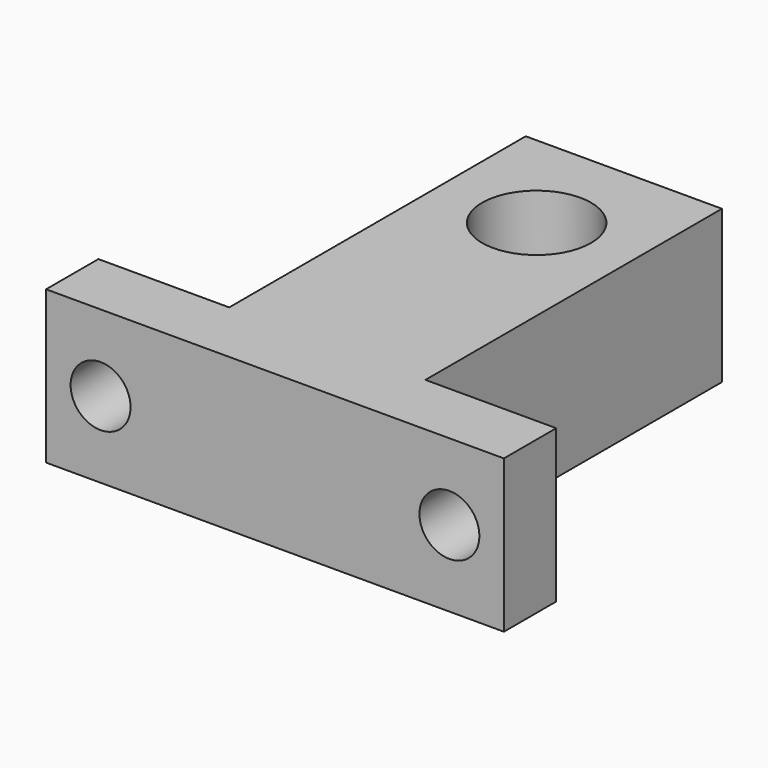
from build123d import *

# Parameters (mm, degrees)
F0_R     = 5
F1_DEPTH = 14
F2_R     = 2.75
F3_DEPTH = 6


with BuildPart() as f1:
    # F0 (on Top) → F1 (new body)
    with BuildSketch(Plane.XY):
        Polygon((9, 40), (-9, 40), (-9, 6), (-21, 6), (-21, 0), (21, 0), (21, 6), (9, 6), align=None)
        with Locations((0, 30)):
            Circle(F0_R, mode=Mode.SUBTRACT)
    extrude(amount=F1_DEPTH)

    # F2 (on Front) → F3 (cut)
    with BuildSketch(Plane.XZ):
        with Locations((-16, 7)):
            Circle(F2_R)
        with Locations((16, 7)):
            Circle(F2_R)
    extrude(amount=-F3_DEPTH, mode=Mode.SUBTRACT)


solid = f1.part
